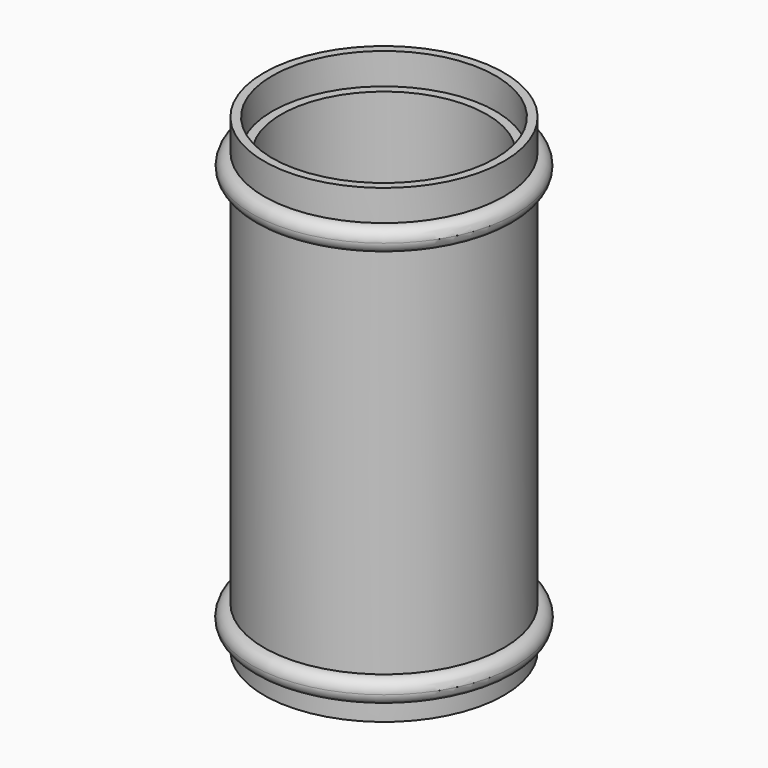
from build123d import *

# Parameters (mm, degrees)
F0_R     = 20.415147
F1_DEPTH = 80
F2_R     = 17.5
F3_DEPTH = 75
F4_R     = 19
F5_DEPTH = 5.3
F6_R     = 2


with BuildPart() as f1:
    # F0 (on Top) → F1 (new body)
    with BuildSketch(Plane.XY):
        Circle(F0_R)
    extrude(amount=F1_DEPTH)

    # F2 (on face) → F3 (cut)
    with BuildSketch(Plane.XY.offset(80)):
        Circle(F2_R)
    extrude(amount=-F3_DEPTH, mode=Mode.SUBTRACT)

    # F4 (on face) → F5 (cut)
    with BuildSketch(Plane.XY.offset(80)):
        Circle(F4_R)
    extrude(amount=-F5_DEPTH, mode=Mode.SUBTRACT)

    # F6 (on Right) → F7 (revolve)
    with BuildSketch(Plane.YZ):
        with Locations((20.380728, 72.729118)):
            Circle(F6_R)
        with Locations((20.435376, 5.122505)):
            Circle(F6_R)
    revolve(axis=Axis((0, 0, 42.480822), (0, 0, 1)))


solid = f1.part
